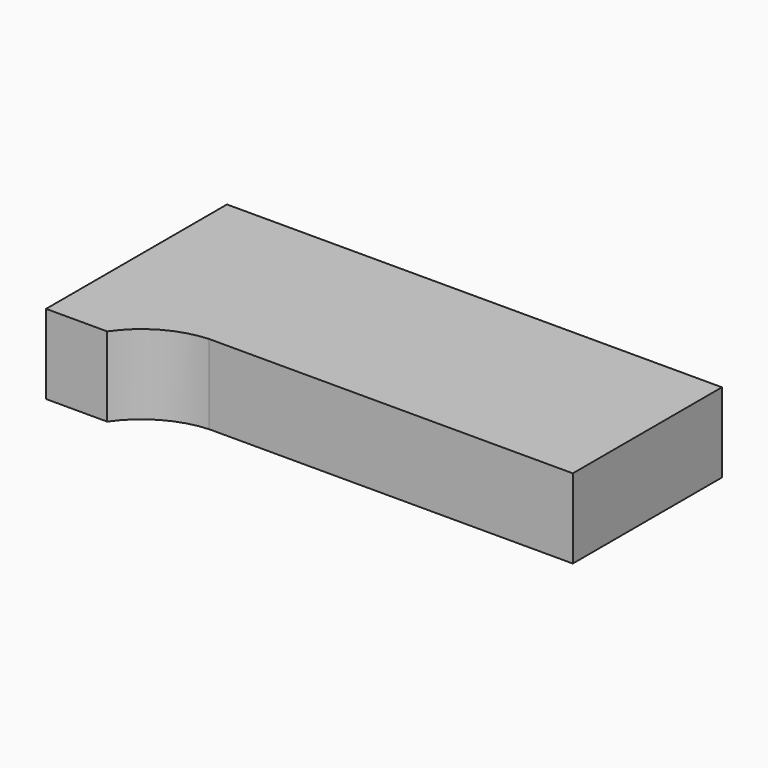
from build123d import *

# Parameters (mm, degrees)
PAD_DEPTH = 26


with BuildPart() as part:
    # Sketch → Pad (new body)
    with BuildSketch(Plane.XY):
        with BuildLine():
            Line((0, 74), (162, 74))
            Line((162, 74), (162, 13))
            Line((43, 13), (162, 13))
            ThreePointArc((43, 13), (29.991897, 9.168182), (20, 0))
            Line((20, 0), (0, 0))
            Line((0, 0), (0, 74))
        make_face()
    extrude(amount=PAD_DEPTH)


solid = part.part
